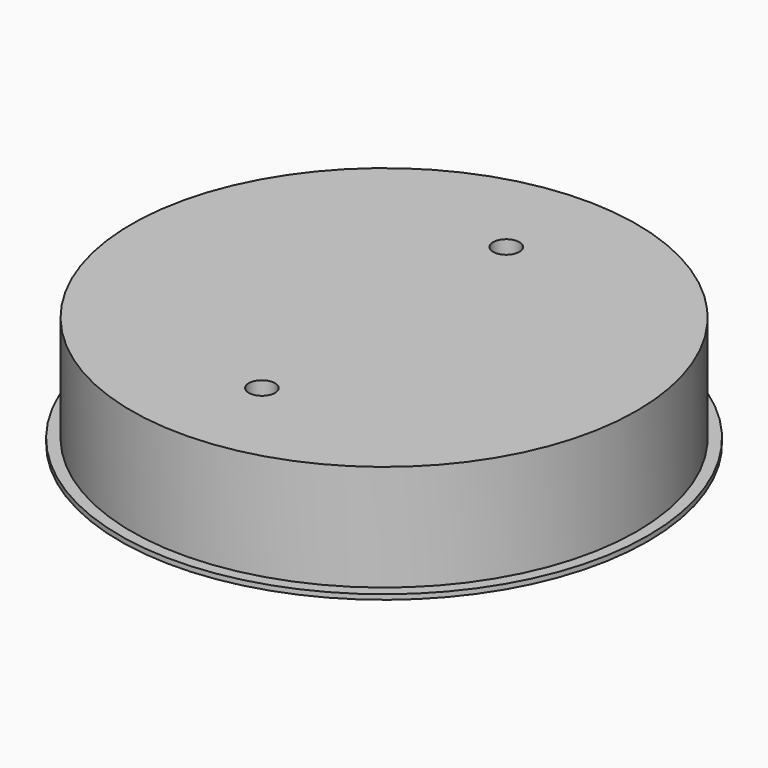
from build123d import *

# Parameters (mm, degrees)
F0_R     = 38.0619
F0_R_2   = 36.4363
F1_DEPTH = 0.7112
F0_R_3   = 33.8455
F2_DEPTH = 16.0274
F3_DEPTH = 10.8712
F5_D     = 3.7973


with BuildPart() as f1:
    # F0 (on Top) → F1 (new body)
    with BuildSketch(Plane.XY):
        Circle(F0_R)
        Circle(F0_R_2, mode=Mode.SUBTRACT)
    extrude(amount=F1_DEPTH)

    # F0 (on Top) → F2 (join)
    with BuildSketch(Plane.XY):
        Circle(F0_R_2)
        Circle(F0_R_3, mode=Mode.SUBTRACT)
        Circle(F0_R_3)
    extrude(amount=F2_DEPTH)

    # F0 (on Top) → F3 (cut)
    with BuildSketch(Plane.XY):
        Circle(F0_R_3)
    extrude(amount=F3_DEPTH, mode=Mode.SUBTRACT)

    # F5 (through all)
    with Locations(Plane(origin=(0, 0, 0), x_dir=(1, 0, 0), z_dir=(0, 0, -1))):
        with Locations((0, 22.0218), (0, -22.0218)):
            Hole(F5_D / 2)


solid = f1.part
